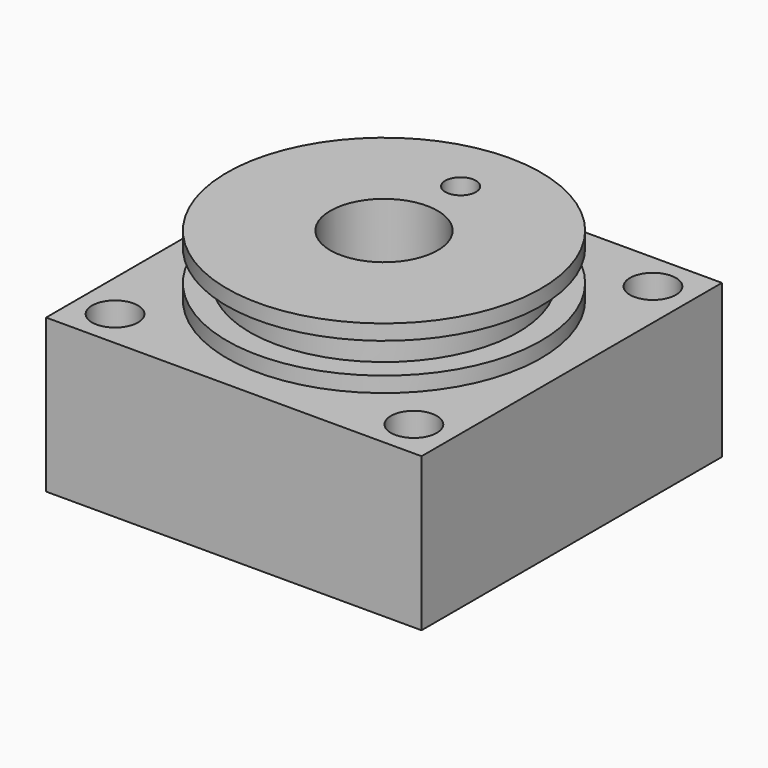
from build123d import *

# Parameters (mm, degrees)
F0_W     = 49
F0_H     = 49
F1_DEPTH = 20
F3_D     = 6
F7_D     = 4.2
F7_DEPTH = 14.4
F7_TIP   = 1.2618073
F9_D     = 4
F9_DEPTH = 18
F9_TIP   = 1.2017212381
F11_D    = 14


with BuildPart() as f1:
    # F0 (on Top) → F1 (new body)
    with BuildSketch(Plane.XY):
        Rectangle(F0_W, F0_H)
    extrude(amount=F1_DEPTH)

    # F3 (through all)
    with Locations(Plane.XY.offset(20)):
        with Locations((-19.5, -19.5), (-19.5, 19.5), (19.5, 19.5), (19.5, -19.5)):
            Hole(F3_D / 2)

    # F4 (on Right) → F5 (revolve)
    with BuildSketch(Plane.YZ):
        Polygon((0, 28), (0, 20), (20.5, 20), (20.5, 22), (17.5, 22), (17.5, 26), (20.5, 26), (20.5, 28), align=None)
    revolve(axis=Axis((0, 0, 24), (0, 0, 1)))

    # F7
    with Locations(Plane(origin=(0, 24.5, 0), x_dir=(-1, 0, 0), z_dir=(0, 1, 0))):
        with Locations((0, 10)):
            Hole(F7_D / 2, depth=F7_DEPTH)
            with Locations((0, 0, -(F7_DEPTH + F7_TIP / 2))):  # 118° drill point
                Cone(0, F7_D / 2, F7_TIP, mode=Mode.SUBTRACT)

    # F9
    with Locations(Plane.XY.offset(28)):
        with Locations((0, 12.5)):
            Hole(F9_D / 2, depth=F9_DEPTH)
            with Locations((0, 0, -(F9_DEPTH + F9_TIP / 2))):  # 118° drill point
                Cone(0, F9_D / 2, F9_TIP, mode=Mode.SUBTRACT)

    # F11 (through all)
    with Locations(Plane.XY.offset(28)):
        with Locations((0, 0)):
            Hole(F11_D / 2)


solid = f1.part
